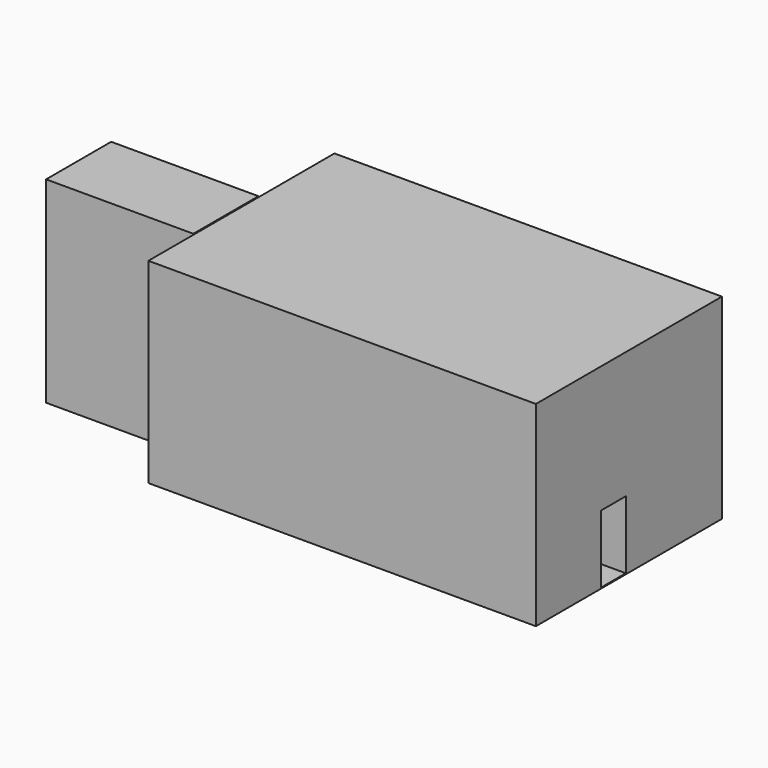
from build123d import *

# Parameters (mm, degrees)
F0_W        = 10000
F0_H        = 5000
F2_DEPTH    = 25
F1_W        = 807.6471351087
F1_H        = 50
F3_DEPTH    = 2500
F5_W        = 10000
F5_H        = 5000
F6_DEPTH    = 200
F7_W        = 50
F7_H        = 800
F7_W_2      = 807.6471351087
F7_H_2      = 50
F7_W_3      = 1750
F7_W_4      = 500
F7_H_3      = 500
F7_W_5      = 400
F8_DEPTH    = 750
F11_W       = 750
F11_H       = 1250
F9_FACE_W   = 10000
F9_FACE_H   = 2525
F9_FACE_W_2 = 800
F9_FACE_H_2 = 1750
F12_DEPTH   = 1000
F13_W       = 800
F13_H       = 1250
F14_DEPTH   = 1000
F15_W       = 2000
F15_H       = 200
F16_DEPTH   = 1000
F17_W       = 2100
F17_H       = 5075
F17_W_2     = 2000
F17_H_2     = 5000
F18_DEPTH   = 3750
F19_W       = 2100
F19_H       = 5075
F20_DEPTH   = 50
F21_W       = 50
F21_H       = 1000
F21_W_2     = 3950
F21_H_2     = 50
F21_W_3     = 3900
F22_DEPTH   = 2500
F23_W       = 500
F23_H       = 50
F23_W_2     = 50
F23_H_2     = 1000
F23_W_3     = 3950
F23_W_4     = 3900
F24_DEPTH   = 750
F25_W       = 10000
F25_H       = 6000
F26_DEPTH   = 25


with BuildPart() as f2:
    # F0 (on Top) → F2 (new body)
    with BuildSketch(Plane.XY):
        with Locations((5000, 2500)):
            Rectangle(F0_W, F0_H)
    extrude(amount=-F2_DEPTH)

    # F1 (on Top) → F3 (join)
    with BuildSketch(Plane.XY):
        Polygon((0, 2100), (0, 0), (2792.3528648913, 0), (2792.3528648913, 2100), (2300, 2100), (2300, 2050), (2742.3528648913, 2050), (2742.3528648913, 50), (50, 50), (50, 2050), (1800, 2050), (1800, 2100), align=None)
        Polygon((2792.3528648913, 2100), (2792.3528648913, 0), (4192.3528648913, 0), (4192.3528648913, 50), (4192.3528648913, 1100), (4142.3528648913, 1100), (4142.3528648913, 50), (2842.3528648913, 50), (2842.3528648913, 2050), (4142.3528648913, 2050), (4142.3528648913, 1600), (4192.3528648913, 1600), (4192.3528648913, 2100), align=None)
        with Locations((4596.1764324456, 25)):
            Rectangle(F1_W, F1_H)
        Polygon((2800, 5000), (0, 5000), (0, 2900), (1800, 2900), (1800, 2950), (50, 2950), (50, 4950), (2750, 4950), (2750, 2950), (2303.6937713623, 2950), (2300, 2900), (2800, 2900), align=None)
        Polygon((4600, 5000), (2800, 5000), (2800, 2900), (3300, 2900), (3300, 2950), (2850, 2950), (2850, 4950), (4550, 4950), (4550, 2950), (3800.9090423584, 2950), (3800, 2900), (4600, 2900), align=None)
    extrude(amount=F3_DEPTH)

    # F5 (on offset) → F6 (join)
    with BuildSketch(Plane.XY.offset(2500)):
        with Locations((5000, 2500)):
            Rectangle(F5_W, F5_H)
    extrude(amount=-F6_DEPTH)

    # F7 (on offset) → F8 (join)
    with BuildSketch(Plane.XY.offset(2500)):
        Polygon((0, 2100), (0, 0), (2792.3528648913, 0), (2792.3528648913, 2100), (2300, 2100), (2300, 2050), (2742.3528648913, 2050), (2742.3528648913, 50), (50, 50), (50, 2050), (50, 2100), align=None)
        Polygon((2792.3528648913, 2100), (2792.3528648913, 0), (4192.3528648913, 0), (4192.3528648913, 50), (4192.3528648913, 1100), (4142.3528648913, 1100), (4142.3528648913, 50), (2842.3528648913, 50), (2842.3528648913, 2050), (4142.3528648913, 2050), (4142.3528648913, 1600), (4192.3528648913, 1600), (4192.3528648913, 2100), align=None)
        with Locations((25, 2500)):
            Rectangle(F7_W, F7_H)
        with Locations((4596.1764324456, 25)):
            Rectangle(F7_W_2, F7_H_2)
        with Locations((925, 2075)):
            Rectangle(F7_W_3, F7_H_2)
        Polygon((0, 5000), (0, 2900), (50, 2900), (50, 2950), (50, 4950), (2750, 4950), (2750, 2950), (2303.6937713623, 2950), (2300, 2900), (2800, 2900), (2800, 5000), align=None)
        with Locations((2050, 2075)):
            Rectangle(F7_W_4, F7_H_2)
        with Locations((925, 2925)):
            Rectangle(F7_W_3, F7_H_2)
        with Locations((4167.3528648913, 1350)):
            Rectangle(F7_W, F7_H_3)
        Polygon((1800, 2950), (1800, 2900), (2300, 2900), (2303.6937713623, 2950), align=None)
        Polygon((4600, 5000), (2800, 5000), (2800, 2900), (3300, 2900), (3300, 2950), (2850, 2950), (2850, 4950), (4550, 4950), (4600, 4950), align=None)
        with Locations((4800, 4975)):
            Rectangle(F7_W_5, F7_H_2)
        Polygon((4600, 2900), (4600, 4950), (4550, 4950), (4550, 2950), (3800.9090423584, 2950), (3800, 2900), align=None)
        Polygon((3300, 2950), (3300, 2900), (3800, 2900), (3800.9090423584, 2950), align=None)
    extrude(amount=-F8_DEPTH)

    # F9: F2 across face


with BuildPart() as f2_1:
    add(f2.part)
    add(f2.part.mirror(Plane(origin=(5000, 25, 1150), x_dir=(0, 1, 0), z_dir=(1, 0, 0))))

    # F11 (on offset) + F9_face (on face) → F12 (join)
    with BuildSketch(Plane.XZ.offset(-2500)):
        Polygon((-1181.8181, 0), (-1000, 0), (-1181.8181, 113.6363125), align=None)
        Polygon((-1181.8181, 113.6363125), (-1000, 0), (-1000, 113.6363125), align=None)
        Polygon((-1363.6362, 0), (-1181.8181, 0), (-1181.8181, 113.6363125), (-1363.6362, 227.272625), align=None)
        Polygon((-1363.6362, 227.272625), (-1181.8181, 113.6363125), (-1181.8181, 227.272625), align=None)
        Polygon((-1545.4543, 0), (-1363.6362, 0), (-1363.6362, 227.272625), (-1545.4543, 340.9089375), align=None)
        Polygon((-1545.4543, 340.9089375), (-1363.6362, 227.272625), (-1363.6362, 340.9089375), align=None)
        Polygon((-1727.2723, 0), (-1545.4543, 0), (-1545.4543, 340.9089375), (-1727.2723, 454.5451875), align=None)
        Polygon((-1727.2723, 454.5451875), (-1545.4543, 340.9089375), (-1545.4543, 454.5451875), align=None)
        Polygon((-1909.0903, 0), (-1727.2723, 0), (-1727.2723, 454.5451875), (-1909.0903, 568.1814375), align=None)
        Polygon((-1909.0903, 568.1814375), (-1727.2723, 454.5451875), (-1727.2723, 568.1814375), align=None)
        Polygon((-2090.90218, 0), (-1909.0903, 0), (-1909.0903, 568.1814375), (-2090.90218, 681.8138625), align=None)
        Polygon((-2090.90218, 681.8138625), (-1909.0903, 568.1814375), (-1909.0903, 681.8138625), align=None)
        Polygon((-2272.72028, 0), (-2090.90218, 0), (-2090.90218, 681.8138625), (-2272.72028, 795.450175), align=None)
        Polygon((-2272.72028, 795.450175), (-2090.90218, 681.8138625), (-2090.90218, 795.450175), align=None)
        Polygon((-2454.53838, 0), (-2272.72028, 0), (-2272.72028, 795.450175), (-2454.53838, 909.0864875), align=None)
        Polygon((-2454.53838, 909.0864875), (-2272.72028, 795.450175), (-2272.72028, 909.0864875), align=None)
        Polygon((-2636.35638, 0), (-2454.53838, 0), (-2454.53838, 909.0864875), (-2636.35638, 1022.7227375), align=None)
        Polygon((-2636.35638, 1022.7227375), (-2454.53838, 909.0864875), (-2454.53838, 1022.7227375), align=None)
        Polygon((-2818.17448, 0), (-2636.35638, 0), (-2636.35638, 1022.7227375), (-2818.17448, 1136.35905), align=None)
        Polygon((-2818.17448, 1136.35905), (-2636.35638, 1022.7227375), (-2636.35638, 1136.35905), align=None)
        Polygon((-3000, 0), (-2818.17448, 0), (-2818.17448, 1136.35905), (-3000, 1250), align=None)
        Polygon((-3000, 1250), (-2818.17448, 1136.35905), (-2818.17448, 1250), align=None)
        with Locations((-3375, 625)):
            Rectangle(F11_W, F11_H)
    with BuildSketch(Plane(origin=(5000, 5000, 1258.7788259958), x_dir=(-1, 0, 0), z_dir=(0, 1, 0))):
        with Locations((0, -21.2788259958)):
            Rectangle(F9_FACE_W, F9_FACE_H)
        with Locations((0, -383.7788259958)):
            Rectangle(F9_FACE_W_2, F9_FACE_H_2, mode=Mode.SUBTRACT)
    extrude(amount=-F12_DEPTH, dir=(0, -1, 0))

    # F13 (on offset) → F14 (join)
    with BuildSketch(Plane.XZ.offset(-2500)):
        with Locations((-3350, 625)):
            Rectangle(F13_W, F13_H)
        Polygon((-2950, 1250), (-2950, 0), (-950, 0), (-950, 1250), (-1131.8438, 1250), (-1313.6538, 1250), (-1495.4718, 1250), (-1677.2899, 1250), (-1859.0999, 1250), (-2040.9179, 1250), (-2222.7359, 1250), (-2404.5459, 1250), (-2586.3639, 1250), (-2768.1819, 1250), align=None)
        Polygon((-2768.1819, 1363.6363125), (-2950, 1250), (-2768.1819, 1250), align=None)
        Polygon((-2950, 1363.6363125), (-2950, 1250), (-2768.1819, 1363.6363125), align=None)
        Polygon((-2768.1819, 1363.6363125), (-2768.1819, 1250), (-2586.3639, 1250), (-2586.3639, 1477.2725625), align=None)
        Polygon((-2768.1819, 1477.2725625), (-2768.1819, 1363.6363125), (-2586.3639, 1477.2725625), align=None)
        Polygon((-1131.8438, 1250), (-950, 1250), (-950, 2500), (-1131.8438, 2386.347625), align=None)
        Polygon((-2586.3639, 1477.2725625), (-2586.3639, 1250), (-2404.5459, 1250), (-2404.5459, 1590.9088125), align=None)
        Polygon((-2586.3639, 1590.9088125), (-2586.3639, 1477.2725625), (-2404.5459, 1590.9088125), align=None)
        Polygon((-1313.6538, 1250), (-1131.8438, 1250), (-1131.8438, 2386.347625), (-1313.6538, 2272.716375), align=None)
        Polygon((-1131.8438, 2386.347625), (-950, 2500), (-1131.8438, 2500), align=None)
        Polygon((-2404.5459, 1590.9088125), (-2404.5459, 1250), (-2222.7359, 1250), (-2222.7359, 1704.5400625), align=None)
        Polygon((-2404.5459, 1704.5400625), (-2404.5459, 1590.9088125), (-2222.7359, 1704.5400625), align=None)
        Polygon((-1495.4718, 1250), (-1313.6538, 1250), (-1313.6538, 2272.716375), (-1495.4718, 2159.080125), align=None)
        Polygon((-1313.6538, 2272.716375), (-1131.8438, 2386.347625), (-1313.6538, 2386.347625), align=None)
        Polygon((-2222.7359, 1704.5400625), (-2222.7359, 1250), (-2040.9179, 1250), (-2040.9179, 1818.1763125), align=None)
        Polygon((-2222.7359, 1818.1763125), (-2222.7359, 1704.5400625), (-2040.9179, 1818.1763125), align=None)
        Polygon((-1677.2899, 1250), (-1495.4718, 1250), (-1495.4718, 2159.080125), (-1677.2899, 2045.4438125), align=None)
        Polygon((-1495.4718, 2159.080125), (-1313.6538, 2272.716375), (-1495.4718, 2272.716375), align=None)
        Polygon((-2040.9179, 1818.1763125), (-2040.9179, 1250), (-1859.0999, 1250), (-1859.0999, 1931.8125625), align=None)
        Polygon((-2040.9179, 1931.8125625), (-2040.9179, 1818.1763125), (-1859.0999, 1931.8125625), align=None)
        Polygon((-1859.0999, 1250), (-1677.2899, 1250), (-1677.2899, 2045.4438125), (-1859.0999, 1931.8125625), align=None)
        Polygon((-1677.2899, 2045.4438125), (-1495.4718, 2159.080125), (-1677.2899, 2159.080125), align=None)
        Polygon((-1859.0999, 2045.4438125), (-1859.0999, 1931.8125625), (-1677.2899, 2045.4438125), align=None)
    extrude(amount=F14_DEPTH)

    # F15 (on face) → F16 (join)
    with BuildSketch(Plane(origin=(0, 0, 0), x_dir=(0, -1, 0), z_dir=(-1, 0, 0))):
        with Locations((-2500, 2400)):
            Rectangle(F15_W, F15_H)
    extrude(amount=F16_DEPTH)

    # F17 (on face) → F18 (join)
    with BuildSketch(Plane(origin=(-3750, 0, 0), x_dir=(0, -1, 0), z_dir=(-1, 0, 0))):
        with Locations((-2500, 2512.5)):
            Rectangle(F17_W, F17_H)
        with Locations((-2500, 2500)):
            Rectangle(F17_W_2, F17_H_2, mode=Mode.SUBTRACT)
    extrude(amount=-F18_DEPTH)

    # F19 (on face) → F20 (join)
    with BuildSketch(Plane(origin=(-3750, 0, 0), x_dir=(0, -1, 0), z_dir=(-1, 0, 0))):
        with Locations((-2500, 2512.5)):
            Rectangle(F19_W, F19_H)
    extrude(amount=F20_DEPTH)

    # F21 (on face) → F22 (join)
    with BuildSketch(Plane.XY.offset(2500)):
        Polygon((4000, 6000), (0, 6000), (0, 3550), (0, 3500), (2950, 3500), (2950, 3550), (50, 3550), (50, 5950), (3950, 5950), (3950, 3550), (3450, 3550), (3450, 3500), (4000, 3500), align=None)
        Polygon((7000, 6000), (4000, 6000), (4000, 3500), (4550, 3500), (4550, 3550), (4050, 3550), (4050, 5950), (6950, 5950), (6950, 3550), (5050, 3550), (5050, 3500), (7000, 3500), align=None)
        Polygon((10000, 6000), (7000, 6000), (7000, 3500), (7550, 3500), (7550, 3550), (7050, 3550), (7050, 5950), (9950, 5950), (9950, 3550), (8050, 3550), (8050, 3500), (9950, 3500), (10000, 3500), align=None)
        with Locations((9975, 3000)):
            Rectangle(F21_W, F21_H)
        Polygon((10000, 0), (10000, 2500), (9950, 2500), (9450, 2500), (9450, 2450), (9950, 2450), (9950, 50), (4050, 50), (4050, 2450), (4550, 2450), (4550, 2500), (4000, 2500), (4000, 50), (4000, 0), align=None)
        with Locations((2025, 25)):
            Rectangle(F21_W_2, F21_H_2)
        Polygon((0, 0), (50, 0), (50, 50), (50, 1500), (0, 1500), (0, 1450), align=None)
        with Locations((7000, 2475)):
            Rectangle(F21_W_3, F21_H_2)
    extrude(amount=F22_DEPTH)

    # F23 (on face) → F24 (join)
    with BuildSketch(Plane.XY.offset(5000)):
        Polygon((4000, 6000), (0, 6000), (0, 3550), (0, 3500), (2950, 3500), (2950, 3550), (50, 3550), (50, 5950), (3950, 5950), (3950, 3550), (3450, 3550), (3450, 3500), (4000, 3500), align=None)
        Polygon((7000, 6000), (4000, 6000), (4000, 3500), (4550, 3500), (4550, 3550), (4050, 3550), (4050, 5950), (6950, 5950), (6950, 3550), (5050, 3550), (5050, 3500), (7000, 3500), align=None)
        Polygon((10000, 6000), (7000, 6000), (7000, 3500), (7550, 3500), (7550, 3550), (7050, 3550), (7050, 5950), (9950, 5950), (9950, 3550), (8050, 3550), (8050, 3500), (9950, 3500), (10000, 3500), align=None)
        with Locations((4800, 3525)):
            Rectangle(F23_W, F23_H)
        with Locations((3200, 3525)):
            Rectangle(F23_W, F23_H)
        with Locations((9975, 3000)):
            Rectangle(F23_W_2, F23_H_2)
        with Locations((7800, 3525)):
            Rectangle(F23_W, F23_H)
        Polygon((10000, 0), (10000, 2500), (9950, 2500), (9450, 2500), (9450, 2450), (9950, 2450), (9950, 50), (4050, 50), (4050, 2450), (4550, 2450), (4550, 2500), (4000, 2500), (4000, 50), (4000, 0), align=None)
        with Locations((2025, 25)):
            Rectangle(F23_W_3, F23_H)
        with Locations((9200, 2475)):
            Rectangle(F23_W, F23_H)
        Polygon((0, 0), (50, 0), (50, 50), (50, 1500), (0, 1500), (0, 1450), align=None)
        with Locations((7000, 2475)):
            Rectangle(F23_W_4, F23_H)
        with Locations((4800, 2475)):
            Rectangle(F23_W, F23_H)
    extrude(amount=-F24_DEPTH)

    # F25 (on face) → F26 (join)
    with BuildSketch(Plane.XY.offset(5000)):
        with Locations((5000, 3000)):
            Rectangle(F25_W, F25_H)
    extrude(amount=F26_DEPTH)


solid = f2_1.part
